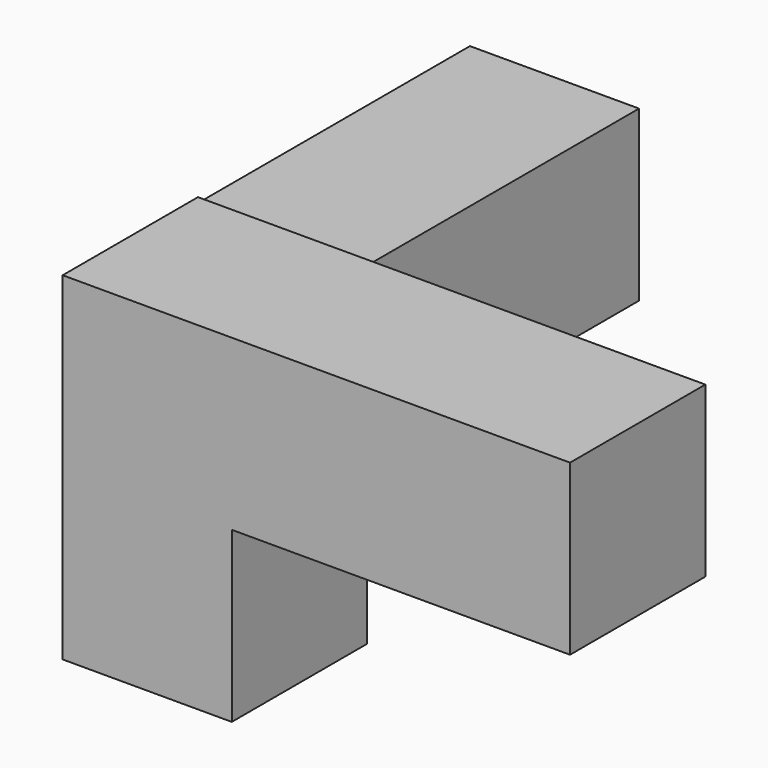
from build123d import *

# Parameters (mm, degrees)
F0_W     = 19.05
F0_H     = 19.05
F1_DEPTH = 19.05
F2_W     = 19.05
F2_H     = 19.05
F3_DEPTH = 38.1


with BuildPart() as f1:
    # F0 (on Front) → F1 (new body)
    with BuildSketch(Plane.XZ):
        Rectangle(F0_W, F0_H)
        with Locations((19.05, 0)):
            Rectangle(F0_W, F0_H)
        with Locations((-19.05, 0)):
            Rectangle(F0_W, F0_H)
        with Locations((-19.05, -19.05)):
            Rectangle(F0_W, F0_H)
    extrude(amount=F1_DEPTH)

    # F2 (on Front) → F3 (join)
    with BuildSketch(Plane.XZ):
        with Locations((-18.8976, -0.460889)):
            Rectangle(F2_W, F2_H)
    extrude(amount=-F3_DEPTH)


solid = f1.part
